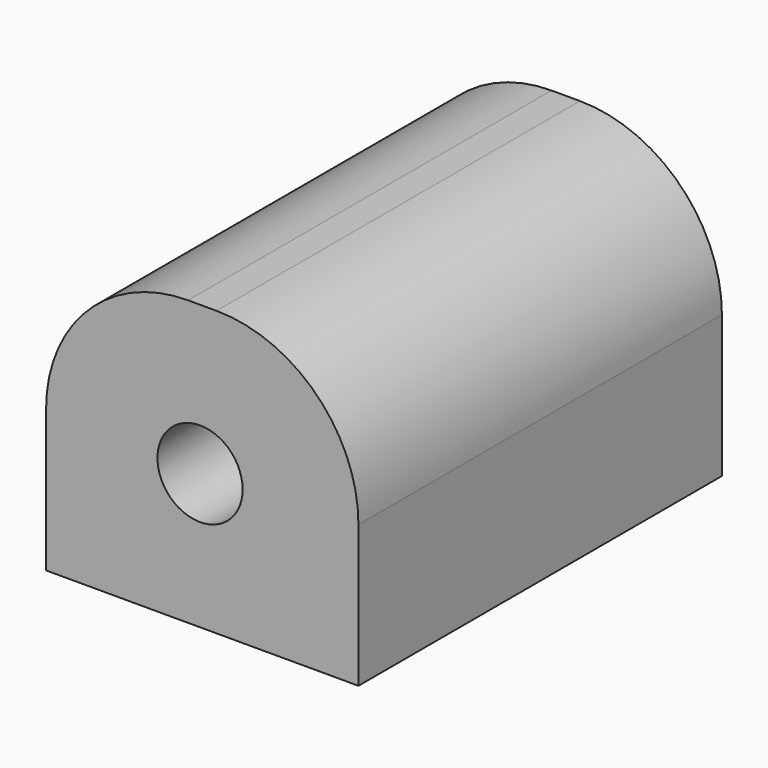
from build123d import *

# Parameters (mm, degrees)
F0_R     = 1.5
F1_DEPTH = 16


with BuildPart() as f1:
    # F0 (on Front) → F1 (new body)
    with BuildSketch(Plane.XZ):
        with BuildLine():
            Line((-8.620996, 11.809211), (-9.620996, 11.809211))
            ThreePointArc((-9.620996, 11.809211), (-13.15653, 10.344745), (-14.620996, 6.809211))
            Line((-14.620996, 6.809211), (-14.620996, 1.809211))
            Line((-14.620996, 1.809211), (-3.620996, 1.809211))
            Line((-3.620996, 1.809211), (-3.620996, 6.809211))
            ThreePointArc((-3.620996, 6.809211), (-5.085462, 10.344745), (-8.620996, 11.809211))
        make_face()
        with Locations((-9.199237, 6.570287)):
            Circle(F0_R, mode=Mode.SUBTRACT)
    extrude(amount=F1_DEPTH)


solid = f1.part
